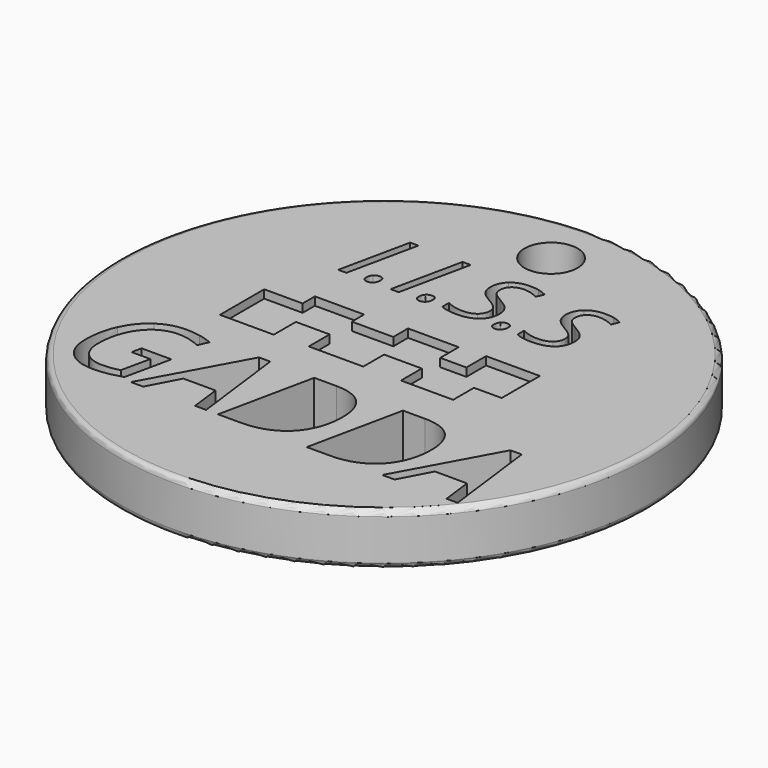
from build123d import *

# Parameters (mm, degrees)
F0_R     = 12.125
F0_R_2   = 1.2178441505
F1_DEPTH = 2.38
F2_R     = 0.25
F0_W     = 0.7057613693
F0_H     = 1.2703727116
F0_W_2   = 0.5980742862
F0_H_2   = 1.2752045877
F0_W_3   = 1.1997958063
F0_H_3   = 1.0610597674
F3_DEPTH = 2


with BuildPart() as f1:
    # F0 (on Top) → F1 (new body)
    with BuildSketch(Plane.XY):
        Circle(F0_R)
        with BuildLine():
            Line((-7.1934235713, -5.5085218554), (-7.0949290453, -5.0542995266))
            Line((-7.0949290453, -5.0542995266), (-5.7236557412, -5.0542995266))
            Line((-5.7236557412, -5.0542995266), (-6.1836156151, -7.1791037677))
            add(Edge.make_bspline(
                [(-6.1836156151, -7.1791037677), (-6.8290894508, -7.4038242883), (-7.436312985, -7.4038242883)],
                knots=[0, 0, 0, 1, 1, 1], degree=2))
            add(Edge.make_bspline(
                [(-7.436312985, -7.4038242883), (-8.2252254508, -7.4038242883), (-8.6627132727, -6.9715958828)],
                knots=[0, 0, 0, 1, 1, 1], degree=2))
            add(Edge.make_bspline(
                [(-8.6627132727, -6.9715958828), (-9.1002010946, -6.5393674773), (-9.1002010946, -5.7657551321)],
                knots=[0, 0, 0, 1, 1, 1], degree=2))
            add(Edge.make_bspline(
                [(-9.1002010946, -5.7657551321), (-9.1002010946, -4.9615425458), (-8.7970674562, -4.3026811047)],
                knots=[0, 0, 0, 1, 1, 1], degree=2))
            add(Edge.make_bspline(
                [(-8.7970674562, -4.3026811047), (-8.4939338179, -3.6438196636), (-7.9560389549, -3.2780511568)],
                knots=[0, 0, 0, 1, 1, 1], degree=2))
            add(Edge.make_bspline(
                [(-7.9560389549, -3.2780511568), (-7.4181440919, -2.9122826499), (-6.7631076809, -2.9122826499)],
                knots=[0, 0, 0, 1, 1, 1], degree=2))
            add(Edge.make_bspline(
                [(-6.7631076809, -2.9122826499), (-6.4140736809, -2.9122826499), (-6.1075931412, -2.9720487458)],
                knots=[0, 0, 0, 1, 1, 1], degree=2))
            add(Edge.make_bspline(
                [(-6.1075931412, -2.9720487458), (-5.8011126014, -3.0318148417), (-5.4903289028, -3.1628221239)],
                knots=[0, 0, 0, 1, 1, 1], degree=2))
            Line((-5.4903289028, -3.1628221239), (-5.6873179549, -3.6170444527))
            add(Edge.make_bspline(
                [(-5.6873179549, -3.6170444527), (-5.9177760206, -3.515681154), (-6.1821812288, -3.4410930664)],
                knots=[0, 0, 0, 1, 1, 1], degree=2))
            add(Edge.make_bspline(
                [(-6.1821812288, -3.4410930664), (-6.4465864371, -3.3665049787), (-6.7631076809, -3.3665049787)],
                knots=[0, 0, 0, 1, 1, 1], degree=2))
            add(Edge.make_bspline(
                [(-6.7631076809, -3.3665049787), (-7.2689679165, -3.3665049787), (-7.6825493001, -3.6696386171)],
                knots=[0, 0, 0, 1, 1, 1], degree=2))
            add(Edge.make_bspline(
                [(-7.6825493001, -3.6696386171), (-8.0961306836, -3.9727722554), (-8.3261106206, -4.5164046636)],
                knots=[0, 0, 0, 1, 1, 1], degree=2))
            add(Edge.make_bspline(
                [(-8.3261106206, -4.5164046636), (-8.5560905576, -5.0600370719), (-8.5560905576, -5.733242376)],
                knots=[0, 0, 0, 1, 1, 1], degree=2))
            add(Edge.make_bspline(
                [(-8.5560905576, -5.733242376), (-8.5560905576, -6.3003030938), (-8.2500881466, -6.6263869129)],
                knots=[0, 0, 0, 1, 1, 1], degree=2))
            add(Edge.make_bspline(
                [(-8.2500881466, -6.6263869129), (-7.9440857357, -6.9524707321), (-7.3942376535, -6.9524707321)],
                knots=[0, 0, 0, 1, 1, 1], degree=2))
            add(Edge.make_bspline(
                [(-7.3942376535, -6.9524707321), (-6.9342777795, -6.9524707321), (-6.6168002782, -6.8358073129)],
                knots=[0, 0, 0, 1, 1, 1], degree=2))
            Line((-6.6168002782, -6.8358073129), (-6.3299230179, -5.5085218554))
            Line((-6.3299230179, -5.5085218554), (-7.1934235713, -5.5085218554))
        make_face(mode=Mode.SUBTRACT)
        Polygon((-2.8070702617, -7.3435800636), (-2.9772841028, -5.9541378664), (-4.4594832809, -5.9541378664), (-5.1919765521, -7.3435800636), (-5.7571247549, -7.3435800636), (-3.3693496919, -2.9744393897), (-2.8491455932, -2.9744393897), (-2.299297511, -7.3435800636), align=None, mode=Mode.SUBTRACT)
        with BuildLine():
            add(Edge.make_bspline(
                [(1.4468413794, -3.4214897869), (1.8757228835, -3.8685401842), (1.8757228835, -4.7224781623)],
                knots=[0, 0, 0, 1, 1, 1], degree=2))
            add(Edge.make_bspline(
                [(1.8757228835, -4.7224781623), (1.8757228835, -5.5027843102), (1.5615922835, -6.1004452691)],
                knots=[0, 0, 0, 1, 1, 1], degree=2))
            add(Edge.make_bspline(
                [(1.5615922835, -6.1004452691), (1.2474616835, -6.698106228), (0.6651008451, -7.0208431458)],
                knots=[0, 0, 0, 1, 1, 1], degree=2))
            add(Edge.make_bspline(
                [(0.6651008451, -7.0208431458), (0.0827400068, -7.3435800636), (-0.7004349138, -7.3435800636)],
                knots=[0, 0, 0, 1, 1, 1], degree=2))
            Line((-0.7004349138, -7.3435800636), (-1.7523182014, -7.3435800636))
            Line((-1.7523182014, -7.3435800636), (-0.8295296809, -2.9744393897))
            Line((-0.8295296809, -2.9744393897), (0.1927096232, -2.9744393897))
            add(Edge.make_bspline(
                [(0.1927096232, -2.9744393897), (1.0179598753, -2.9744393897), (1.4468413794, -3.4214897869)],
                knots=[0, 0, 0, 1, 1, 1], degree=2))
        make_face(mode=Mode.SUBTRACT)
        with BuildLine():
            add(Edge.make_bspline(
                [(5.5233672479, -3.4214897869), (5.952248752, -3.8685401842), (5.952248752, -4.7224781623)],
                knots=[0, 0, 0, 1, 1, 1], degree=2))
            add(Edge.make_bspline(
                [(5.952248752, -4.7224781623), (5.952248752, -5.5027843102), (5.638118152, -6.1004452691)],
                knots=[0, 0, 0, 1, 1, 1], degree=2))
            add(Edge.make_bspline(
                [(5.638118152, -6.1004452691), (5.323987552, -6.698106228), (4.7416267136, -7.0208431458)],
                knots=[0, 0, 0, 1, 1, 1], degree=2))
            add(Edge.make_bspline(
                [(4.7416267136, -7.0208431458), (4.1592658753, -7.3435800636), (3.3760909547, -7.3435800636)],
                knots=[0, 0, 0, 1, 1, 1], degree=2))
            Line((3.3760909547, -7.3435800636), (2.3242076671, -7.3435800636))
            Line((2.3242076671, -7.3435800636), (3.2469961876, -2.9744393897))
            Line((3.2469961876, -2.9744393897), (4.2692354917, -2.9744393897))
            add(Edge.make_bspline(
                [(4.2692354917, -2.9744393897), (5.0944857438, -2.9744393897), (5.5233672479, -3.4214897869)],
                knots=[0, 0, 0, 1, 1, 1], degree=2))
        make_face(mode=Mode.SUBTRACT)
        Polygon((8.7435644944, -7.3435800636), (8.5733506534, -5.9541378664), (7.0911514753, -5.9541378664), (6.358658204, -7.3435800636), (5.7935100013, -7.3435800636), (8.1812850643, -2.9744393897), (8.7014891629, -2.9744393897), (9.2513372451, -7.3435800636), align=None, mode=Mode.SUBTRACT)
        Polygon((-6.5264790319, -1.2655408354), (-6.5264790319, 1.2752045877), (-4.7620721161, 1.2752045877), (-4.7620721161, 1.9809671212), (-2.5036325678, 1.9809671212), (-2.5036325678, 1.2752045877), (-0.5980742862, 1.2752045877), (-0.5980742862, 2.1221195348), (1.7309422838, 2.1221195348), (1.7309422838, 1.0610597674), (2.9307380901, 1.0610597674), (2.9307380901, 2.1926951595), (5.4009072483, 2.1926951595), (5.4009072483, 0), (4.1305338964, 0), (4.1305338964, -1.1949642794), (1.7309422838, -1.1949642794), (1.7309422838, 0), (0, 0), (0, -1.1949642794), (-2.5036325678, -1.1949642794), (-2.5036325678, 0.0048318761), (-4.0563107468, 0.0048318761), (-4.0563107468, -1.2655408354), align=None, mode=Mode.SUBTRACT)
        with BuildLine():
            add(Edge.make_bspline(
                [(-4.1866271864, 4.1064202771), (-4.2470273747, 4.1646760801), (-4.2470273747, 4.2783285056)],
                knots=[0, 0, 0, 1, 1, 1], degree=2))
            add(Edge.make_bspline(
                [(-4.2470273747, 4.2783285056), (-4.2470273747, 4.4505941316), (-4.1562483934, 4.5520950399)],
                knots=[0, 0, 0, 1, 1, 1], degree=2))
            add(Edge.make_bspline(
                [(-4.1562483934, 4.5520950399), (-4.065469412, 4.6535959482), (-3.9074996886, 4.6535959482)],
                knots=[0, 0, 0, 1, 1, 1], degree=2))
            add(Edge.make_bspline(
                [(-3.9074996886, 4.6535959482), (-3.8110023462, 4.6535959482), (-3.7520317481, 4.5956975428)],
                knots=[0, 0, 0, 1, 1, 1], degree=2))
            add(Edge.make_bspline(
                [(-3.7520317481, 4.5956975428), (-3.6930611499, 4.5377991373), (-3.6930611499, 4.4191431459)],
                knots=[0, 0, 0, 1, 1, 1], degree=2))
            add(Edge.make_bspline(
                [(-3.6930611499, 4.4191431459), (-3.6930611499, 4.2604586274), (-3.782410541, 4.1543115507)],
                knots=[0, 0, 0, 1, 1, 1], degree=2))
            add(Edge.make_bspline(
                [(-3.782410541, 4.1543115507), (-3.8717599321, 4.0481644741), (-4.0232964994, 4.0481644741)],
                knots=[0, 0, 0, 1, 1, 1], degree=2))
            add(Edge.make_bspline(
                [(-4.0232964994, 4.0481644741), (-4.126226998, 4.0481644741), (-4.1866271864, 4.1064202771)],
                knots=[0, 0, 0, 1, 1, 1], degree=2))
        make_face(mode=Mode.SUBTRACT)
        Polygon((-5.0240096797, 4.1132108308), (-5.3992771223, 4.1132108308), (-4.7044962571, 7.3791097742), (-4.3292288145, 7.3791097742), align=None, mode=Mode.SUBTRACT)
        with BuildLine():
            add(Edge.make_bspline(
                [(-1.7806267829, 4.1064202771), (-1.8410269713, 4.1646760801), (-1.8410269713, 4.2783285056)],
                knots=[0, 0, 0, 1, 1, 1], degree=2))
            add(Edge.make_bspline(
                [(-1.8410269713, 4.2783285056), (-1.8410269713, 4.4505941316), (-1.75024799, 4.5520950399)],
                knots=[0, 0, 0, 1, 1, 1], degree=2))
            add(Edge.make_bspline(
                [(-1.75024799, 4.5520950399), (-1.6594690086, 4.6535959482), (-1.5014992851, 4.6535959482)],
                knots=[0, 0, 0, 1, 1, 1], degree=2))
            add(Edge.make_bspline(
                [(-1.5014992851, 4.6535959482), (-1.4050019428, 4.6535959482), (-1.3460313446, 4.5956975428)],
                knots=[0, 0, 0, 1, 1, 1], degree=2))
            add(Edge.make_bspline(
                [(-1.3460313446, 4.5956975428), (-1.2870607465, 4.5377991373), (-1.2870607465, 4.4191431459)],
                knots=[0, 0, 0, 1, 1, 1], degree=2))
            add(Edge.make_bspline(
                [(-1.2870607465, 4.4191431459), (-1.2870607465, 4.2604586274), (-1.3764101376, 4.1543115507)],
                knots=[0, 0, 0, 1, 1, 1], degree=2))
            add(Edge.make_bspline(
                [(-1.3764101376, 4.1543115507), (-1.4657595287, 4.0481644741), (-1.617296096, 4.0481644741)],
                knots=[0, 0, 0, 1, 1, 1], degree=2))
            add(Edge.make_bspline(
                [(-1.617296096, 4.0481644741), (-1.7202265945, 4.0481644741), (-1.7806267829, 4.1064202771)],
                knots=[0, 0, 0, 1, 1, 1], degree=2))
        make_face(mode=Mode.SUBTRACT)
        Polygon((-2.6180092763, 4.1132108308), (-2.9932767189, 4.1132108308), (-2.2984958537, 7.3791097742), (-1.9232284111, 7.3791097742), align=None, mode=Mode.SUBTRACT)
        with BuildLine():
            add(Edge.make_bspline(
                [(1.6732632793, 4.1064202771), (1.6128630909, 4.1646760801), (1.6128630909, 4.2783285056)],
                knots=[0, 0, 0, 1, 1, 1], degree=2))
            add(Edge.make_bspline(
                [(1.6128630909, 4.2783285056), (1.6128630909, 4.4505941316), (1.7036420722, 4.5520950399)],
                knots=[0, 0, 0, 1, 1, 1], degree=2))
            add(Edge.make_bspline(
                [(1.7036420722, 4.5520950399), (1.7944210536, 4.6535959482), (1.9523907771, 4.6535959482)],
                knots=[0, 0, 0, 1, 1, 1], degree=2))
            add(Edge.make_bspline(
                [(1.9523907771, 4.6535959482), (2.0488881194, 4.6535959482), (2.1078587176, 4.5956975428)],
                knots=[0, 0, 0, 1, 1, 1], degree=2))
            add(Edge.make_bspline(
                [(2.1078587176, 4.5956975428), (2.1668293157, 4.5377991373), (2.1668293157, 4.4191431459)],
                knots=[0, 0, 0, 1, 1, 1], degree=2))
            add(Edge.make_bspline(
                [(2.1668293157, 4.4191431459), (2.1668293157, 4.2604586274), (2.0774799246, 4.1543115507)],
                knots=[0, 0, 0, 1, 1, 1], degree=2))
            add(Edge.make_bspline(
                [(2.0774799246, 4.1543115507), (1.9881305335, 4.0481644741), (1.8365939662, 4.0481644741)],
                knots=[0, 0, 0, 1, 1, 1], degree=2))
            add(Edge.make_bspline(
                [(1.8365939662, 4.0481644741), (1.7336634677, 4.0481644741), (1.6732632793, 4.1064202771)],
                knots=[0, 0, 0, 1, 1, 1], degree=2))
        make_face(mode=Mode.SUBTRACT)
        with BuildLine():
            add(Edge.make_bspline(
                [(1.2007836992, 5.374109438), (1.2597542973, 5.2390131586), (1.2597542973, 5.0603143765)],
                knots=[0, 0, 0, 1, 1, 1], degree=2))
            add(Edge.make_bspline(
                [(1.2597542973, 5.0603143765), (1.2597542973, 4.5892643866), (0.9459592358, 4.3287215622)],
                knots=[0, 0, 0, 1, 1, 1], degree=2))
            add(Edge.make_bspline(
                [(0.9459592358, 4.3287215622), (0.6321641742, 4.0681787377), (0.0624724566, 4.0681787377)],
                knots=[0, 0, 0, 1, 1, 1], degree=2))
            add(Edge.make_bspline(
                [(0.0624724566, 4.0681787377), (-0.174124731, 4.0681787377), (-0.3538957059, 4.1007019161)],
                knots=[0, 0, 0, 1, 1, 1], degree=2))
            add(Edge.make_bspline(
                [(-0.3538957059, 4.1007019161), (-0.5336666808, 4.1332250944), (-0.6923511994, 4.2089933781)],
                knots=[0, 0, 0, 1, 1, 1], degree=2))
            Line((-0.6923511994, 4.2089933781), (-0.6923511994, 4.5892643866))
            add(Edge.make_bspline(
                [(-0.6923511994, 4.5892643866), (-0.3306648642, 4.4012732677), (0.0667612274, 4.4012732677)],
                knots=[0, 0, 0, 1, 1, 1], degree=2))
            add(Edge.make_bspline(
                [(0.0667612274, 4.4012732677), (0.4291623577, 4.4012732677), (0.6410991133, 4.5699649181)],
                knots=[0, 0, 0, 1, 1, 1], degree=2))
            add(Edge.make_bspline(
                [(0.6410991133, 4.5699649181), (0.853035869, 4.7386565685), (0.853035869, 5.0338669567)],
                knots=[0, 0, 0, 1, 1, 1], degree=2))
            add(Edge.make_bspline(
                [(0.853035869, 5.0338669567), (0.853035869, 5.207562173), (0.7358094679, 5.3405140669)],
                knots=[0, 0, 0, 1, 1, 1], degree=2))
            add(Edge.make_bspline(
                [(0.7358094679, 5.3405140669), (0.6185830668, 5.4734659609), (0.2990696442, 5.6543091285)],
                knots=[0, 0, 0, 1, 1, 1], degree=2))
            add(Edge.make_bspline(
                [(0.2990696442, 5.6543091285), (-0.0375988614, 5.8444446327), (-0.16840637, 6.0342227394)],
                knots=[0, 0, 0, 1, 1, 1], degree=2))
            add(Edge.make_bspline(
                [(-0.16840637, 6.0342227394), (-0.2992138786, 6.2240008461), (-0.2992138786, 6.4834714778)],
                knots=[0, 0, 0, 1, 1, 1], degree=2))
            add(Edge.make_bspline(
                [(-0.2992138786, 6.4834714778), (-0.2992138786, 6.900911833), (-0.0043608879, 7.1632416453)],
                knots=[0, 0, 0, 1, 1, 1], degree=2))
            add(Edge.make_bspline(
                [(-0.0043608879, 7.1632416453), (0.2904921027, 7.4255714575), (0.7708344292, 7.4255714575)],
                knots=[0, 0, 0, 1, 1, 1], degree=2))
            add(Edge.make_bspline(
                [(0.7708344292, 7.4255714575), (0.991706124, 7.4255714575), (1.1829138209, 7.3833985449)],
                knots=[0, 0, 0, 1, 1, 1], degree=2))
            add(Edge.make_bspline(
                [(1.1829138209, 7.3833985449), (1.3741215179, 7.3412256323), (1.585700876, 7.2382951338)],
                knots=[0, 0, 0, 1, 1, 1], degree=2))
            Line((1.585700876, 7.2382951338), (1.4384530795, 6.9030562184))
            add(Edge.make_bspline(
                [(1.4384530795, 6.9030562184), (1.2912052829, 6.9881168387), (1.1078603324, 7.0370803051)],
                knots=[0, 0, 0, 1, 1, 1], degree=2))
            add(Edge.make_bspline(
                [(1.1078603324, 7.0370803051), (0.9245153819, 7.0860437714), (0.7708344292, 7.0860437714)],
                knots=[0, 0, 0, 1, 1, 1], degree=2))
            add(Edge.make_bspline(
                [(0.7708344292, 7.0860437714), (0.4713352703, 7.0860437714), (0.28941991, 6.9309332284)],
                knots=[0, 0, 0, 1, 1, 1], degree=2))
            add(Edge.make_bspline(
                [(0.28941991, 6.9309332284), (0.1075045497, 6.7758226855), (0.1075045497, 6.5099188976)],
                knots=[0, 0, 0, 1, 1, 1], degree=2))
            add(Edge.make_bspline(
                [(0.1075045497, 6.5099188976), (0.1075045497, 6.3891185208), (0.1453886915, 6.3033431054)],
                knots=[0, 0, 0, 1, 1, 1], degree=2))
            add(Edge.make_bspline(
                [(0.1453886915, 6.3033431054), (0.1832728334, 6.2175676899), (0.2658316707, 6.1414420087)],
                knots=[0, 0, 0, 1, 1, 1], degree=2))
            add(Edge.make_bspline(
                [(0.2658316707, 6.1414420087), (0.3483905081, 6.0653163275), (0.5828433103, 5.929505253)],
                knots=[0, 0, 0, 1, 1, 1], degree=2))
            add(Edge.make_bspline(
                [(0.5828433103, 5.929505253), (0.9116490696, 5.7329365926), (1.0267310853, 5.621071155)],
                knots=[0, 0, 0, 1, 1, 1], degree=2))
            add(Edge.make_bspline(
                [(1.0267310853, 5.621071155), (1.141813101, 5.5092057173), (1.2007836992, 5.374109438)],
                knots=[0, 0, 0, 1, 1, 1], degree=2))
        make_face(mode=Mode.SUBTRACT)
        with BuildLine():
            add(Edge.make_bspline(
                [(4.6546737614, 5.374109438), (4.7136443595, 5.2390131586), (4.7136443595, 5.0603143765)],
                knots=[0, 0, 0, 1, 1, 1], degree=2))
            add(Edge.make_bspline(
                [(4.7136443595, 5.0603143765), (4.7136443595, 4.5892643866), (4.3998492979, 4.3287215622)],
                knots=[0, 0, 0, 1, 1, 1], degree=2))
            add(Edge.make_bspline(
                [(4.3998492979, 4.3287215622), (4.0860542364, 4.0681787377), (3.5163625188, 4.0681787377)],
                knots=[0, 0, 0, 1, 1, 1], degree=2))
            add(Edge.make_bspline(
                [(3.5163625188, 4.0681787377), (3.2797653312, 4.0681787377), (3.0999943563, 4.1007019161)],
                knots=[0, 0, 0, 1, 1, 1], degree=2))
            add(Edge.make_bspline(
                [(3.0999943563, 4.1007019161), (2.9202233814, 4.1332250944), (2.7615388628, 4.2089933781)],
                knots=[0, 0, 0, 1, 1, 1], degree=2))
            Line((2.7615388628, 4.2089933781), (2.7615388628, 4.5892643866))
            add(Edge.make_bspline(
                [(2.7615388628, 4.5892643866), (3.123225198, 4.4012732677), (3.5206512896, 4.4012732677)],
                knots=[0, 0, 0, 1, 1, 1], degree=2))
            add(Edge.make_bspline(
                [(3.5206512896, 4.4012732677), (3.8830524199, 4.4012732677), (4.0949891755, 4.5699649181)],
                knots=[0, 0, 0, 1, 1, 1], degree=2))
            add(Edge.make_bspline(
                [(4.0949891755, 4.5699649181), (4.3069259312, 4.7386565685), (4.3069259312, 5.0338669567)],
                knots=[0, 0, 0, 1, 1, 1], degree=2))
            add(Edge.make_bspline(
                [(4.3069259312, 5.0338669567), (4.3069259312, 5.207562173), (4.1896995301, 5.3405140669)],
                knots=[0, 0, 0, 1, 1, 1], degree=2))
            add(Edge.make_bspline(
                [(4.1896995301, 5.3405140669), (4.072473129, 5.4734659609), (3.7529597064, 5.6543091285)],
                knots=[0, 0, 0, 1, 1, 1], degree=2))
            add(Edge.make_bspline(
                [(3.7529597064, 5.6543091285), (3.4162912008, 5.8444446327), (3.2854836922, 6.0342227394)],
                knots=[0, 0, 0, 1, 1, 1], degree=2))
            add(Edge.make_bspline(
                [(3.2854836922, 6.0342227394), (3.1546761836, 6.2240008461), (3.1546761836, 6.4834714778)],
                knots=[0, 0, 0, 1, 1, 1], degree=2))
            add(Edge.make_bspline(
                [(3.1546761836, 6.4834714778), (3.1546761836, 6.900911833), (3.4495291743, 7.1632416453)],
                knots=[0, 0, 0, 1, 1, 1], degree=2))
            add(Edge.make_bspline(
                [(3.4495291743, 7.1632416453), (3.7443821649, 7.4255714575), (4.2247244914, 7.4255714575)],
                knots=[0, 0, 0, 1, 1, 1], degree=2))
            add(Edge.make_bspline(
                [(4.2247244914, 7.4255714575), (4.4455961862, 7.4255714575), (4.6368038831, 7.3833985449)],
                knots=[0, 0, 0, 1, 1, 1], degree=2))
            add(Edge.make_bspline(
                [(4.6368038831, 7.3833985449), (4.8280115801, 7.3412256323), (5.0395909382, 7.2382951338)],
                knots=[0, 0, 0, 1, 1, 1], degree=2))
            Line((5.0395909382, 7.2382951338), (4.8923431417, 6.9030562184))
            add(Edge.make_bspline(
                [(4.8923431417, 6.9030562184), (4.7450953451, 6.9881168387), (4.5617503946, 7.0370803051)],
                knots=[0, 0, 0, 1, 1, 1], degree=2))
            add(Edge.make_bspline(
                [(4.5617503946, 7.0370803051), (4.3784054441, 7.0860437714), (4.2247244914, 7.0860437714)],
                knots=[0, 0, 0, 1, 1, 1], degree=2))
            add(Edge.make_bspline(
                [(4.2247244914, 7.0860437714), (3.9252253324, 7.0860437714), (3.7433099722, 6.9309332284)],
                knots=[0, 0, 0, 1, 1, 1], degree=2))
            add(Edge.make_bspline(
                [(3.7433099722, 6.9309332284), (3.5613946119, 6.7758226855), (3.5613946119, 6.5099188976)],
                knots=[0, 0, 0, 1, 1, 1], degree=2))
            add(Edge.make_bspline(
                [(3.5613946119, 6.5099188976), (3.5613946119, 6.3891185208), (3.5992787537, 6.3033431054)],
                knots=[0, 0, 0, 1, 1, 1], degree=2))
            add(Edge.make_bspline(
                [(3.5992787537, 6.3033431054), (3.6371628956, 6.2175676899), (3.7197217329, 6.1414420087)],
                knots=[0, 0, 0, 1, 1, 1], degree=2))
            add(Edge.make_bspline(
                [(3.7197217329, 6.1414420087), (3.8022805703, 6.0653163275), (4.0367333725, 5.929505253)],
                knots=[0, 0, 0, 1, 1, 1], degree=2))
            add(Edge.make_bspline(
                [(4.0367333725, 5.929505253), (4.3655391318, 5.7329365926), (4.4806211475, 5.621071155)],
                knots=[0, 0, 0, 1, 1, 1], degree=2))
            add(Edge.make_bspline(
                [(4.4806211475, 5.621071155), (4.5957031632, 5.5092057173), (4.6546737614, 5.374109438)],
                knots=[0, 0, 0, 1, 1, 1], degree=2))
        make_face(mode=Mode.SUBTRACT)
        with Locations((0, 9.5888422802)):
            Circle(F0_R_2, mode=Mode.SUBTRACT)
    extrude(amount=F1_DEPTH)

    # F2
    f2_edges = [f1.edges().sort_by_distance(p)[0] for p in [
        (-12.125, 0, 2.38),
        (-12.125, 0, 0),
    ]]
    fillet(f2_edges, radius=F2_R)

    # F0 (on Top) → F3 (join)
    with BuildSketch(Plane.XY):
        Polygon((-4.7620721161, 1.2752045877), (-6.5264790319, 1.2752045877), (-6.5264790319, -1.2655408354), (-4.0563107468, -1.2655408354), (-4.0563107468, 0.0048318761), (-4.7620721161, 0.0048318761), align=None)
        Polygon((-4.7620721161, 1.9809671212), (-4.7620721161, 1.2752045877), (-4.0563107468, 1.2752045877), (-4.0563107468, 0.0048318761), (-2.5036325678, 0.0048318761), (-2.5036325678, 1.2752045877), (-2.5036325678, 1.9809671212), align=None)
        Polygon((-2.5036325678, 1.2752045877), (-2.5036325678, 0.0048318761), (-2.5036325678, -1.1949642794), (0, -1.1949642794), (0, 0), (-0.5980742862, 0), (-0.5980742862, 1.2752045877), align=None)
        Polygon((-0.5980742862, 2.1221195348), (-0.5980742862, 1.2752045877), (0, 1.2752045877), (0, 0), (1.7309422838, 0), (1.7309422838, 1.0610597674), (1.7309422838, 2.1221195348), align=None)
        Polygon((1.7309422838, 1.0610597674), (1.7309422838, 0), (1.7309422838, -1.1949642794), (4.1305338964, -1.1949642794), (4.1305338964, 0), (2.9307380901, 0), (2.9307380901, 1.0610597674), align=None)
        Polygon((2.9307380901, 2.1926951595), (2.9307380901, 1.0610597674), (4.1305338964, 1.0610597674), (4.1305338964, 0), (5.4009072483, 0), (5.4009072483, 2.1926951595), align=None)
        with Locations((-4.4091914315, 0.6400182319)):
            Rectangle(F0_W, F0_H)
        with Locations((-0.2990371431, 0.6376022939)):
            Rectangle(F0_W_2, F0_H_2)
        with Locations((3.5306359932, 0.5305298837)):
            Rectangle(F0_W_3, F0_H_3)
    extrude(amount=F3_DEPTH)


solid = f1.part
